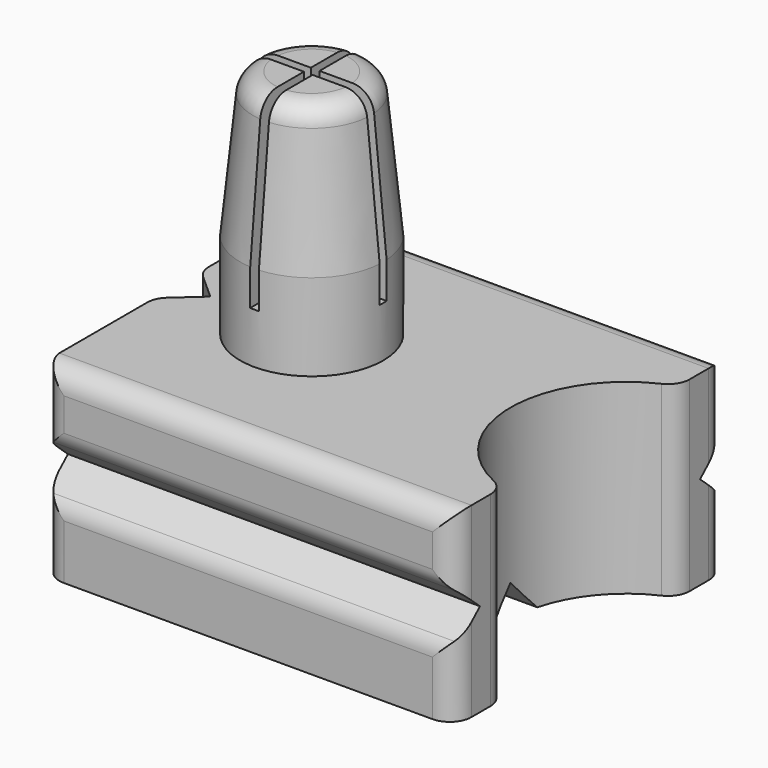
from build123d import *

# Parameters (mm, degrees)
F0_R      = 9.9
F1_DEPTH  = 32
F0_W      = 37
F0_H      = 47
F2_DEPTH  = 25.8
F3_DEPTH  = 20
F5_SIZE2  = 20
F5_SIZE   = 2
F6_DEPTH  = 25.801
F8_DEPTH  = 57.001
F11_DEPTH = 57.001
F12_DEPTH = 25.801
F13_W     = 1.2
F13_H     = 9.9
F13_H_2   = 1.2
F13_W_2   = 9.9
F14_DEPTH = 25
F15_R     = 3


with BuildPart() as f1:
    # F0 (on Top) → F1 (new body)
    with BuildSketch(Plane.XY):
        Circle(F0_R)
    extrude(amount=F1_DEPTH)

    # F0 (on Top) → F2 (join)
    with BuildSketch(Plane.XY):
        Rectangle(F0_W, F0_H)
        Circle(F0_R, mode=Mode.SUBTRACT)
        Circle(F0_R)
    extrude(amount=-F2_DEPTH)

    # F3 (add): a face of the model
    f3_faces = [f1.faces().sort_by_distance(p)[0] for p in [
        (18.5, 0, -12.9),
    ]]
    extrude(f3_faces, amount=F3_DEPTH)

    # F5
    f5_edges = [f1.edges().sort_by_distance(p)[0] for p in [
        (-9.9, 0, 32),
    ]]
    f5_side = f1.faces().sort_by_distance((0, 0, 32))[0]
    chamfer(f5_edges, length=F5_SIZE, length2=F5_SIZE2, reference=f5_side)

    # F4 (on face) → F6 (cut, through all)
    with BuildSketch(Plane.XY):
        with BuildLine():
            Line((38.5, -15.1986841536), (38.5, 15.1986841536))
            ThreePointArc((38.5, 15.1986841536), (27.5, 0), (38.5, -15.1986841536))
        make_face()
    extrude(amount=-F6_DEPTH, mode=Mode.SUBTRACT)

    # F7 (on face) → F8 (cut, through all)
    with BuildSketch(Plane(origin=(-18.5, 0, 0), x_dir=(0, -1, 0), z_dir=(-1, 0, 0))):
        Polygon((-23.5, -16.9), (-19.027864045, -12.9), (-23.5, -8.9), align=None)
        Polygon((19.027864045, -12.9), (23.5, -16.9), (23.5, -8.9), align=None)
    extrude(amount=-F8_DEPTH, mode=Mode.SUBTRACT)

    # F10 (on face) → F11 (cut, through all)
    with BuildSketch(Plane(origin=(-18.5, 0, 0), x_dir=(0, -1, 0), z_dir=(-1, 0, 0))):
        Polygon((4, -25.8), (0, -21.327864045), (-4, -25.8), align=None)
    extrude(amount=-F11_DEPTH, mode=Mode.SUBTRACT)

    # F9 (on face) → F12 (cut, through all)
    with BuildSketch(Plane.XY):
        Polygon((-18.5, -4), (-14.027864045, 0), (-18.5, 4), align=None)
    extrude(amount=-F12_DEPTH, mode=Mode.SUBTRACT)

    # F13 (on face) → F14 (cut)
    with BuildSketch(Plane.XY.offset(32)):
        with Locations((0, -5.55)):
            Rectangle(F13_W, F13_H)
        Rectangle(F13_W, F13_H_2)
        with Locations((5.55, 0)):
            Rectangle(F13_W_2, F13_H_2)
        with Locations((-5.55, 0)):
            Rectangle(F13_W_2, F13_H_2)
        with Locations((0, 5.55)):
            Rectangle(F13_W, F13_H)
    extrude(amount=-F14_DEPTH, mode=Mode.SUBTRACT)

    # F15
    f15_edges = [f1.edges().sort_by_distance(p)[0] for p in [
        (-18.5, 23.5, -4.45),
        (-18.5, 23.5, -21.35),
        (-18.5, -23.5, -4.45),
        (-18.5, -23.5, -21.35),
        (38.5, -23.5, -4.45),
        (38.5, -23.5, -21.35),
        (38.5, 15.198684, -12.9),
        (38.5, -15.198684, -12.9),
        (38.5, 23.5, -4.45),
        (38.5, 23.5, -21.35),
        (10, -23.5, 0),
        (10, 23.5, 0),
        (10, 23.5, -16.9),
        (10, -23.5, -8.9),
        (10, -23.5, -16.9),
        (10, 23.5, -8.9),
        (-18.5, 4, -12.9),
        (-18.5, -4, -12.9),
        (-5.586144, 5.586144, 32),
        (-5.586144, -5.586144, 32),
        (5.586144, -5.586144, 32),
        (5.586144, 5.586144, 32),
    ]]
    fillet(f15_edges, radius=F15_R)


solid = f1.part
